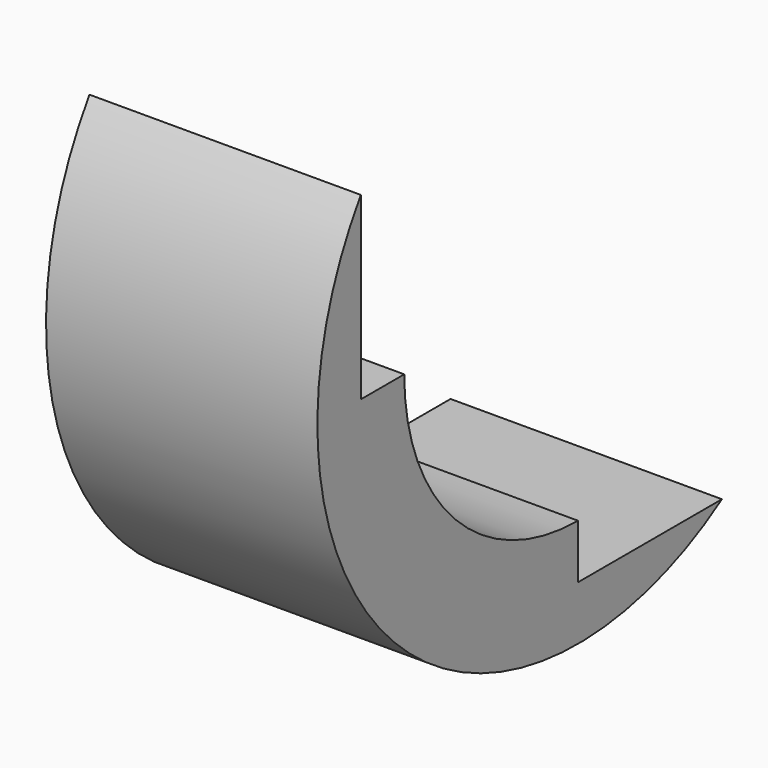
from build123d import *

# Parameters (mm, degrees)
BOX036_W      = 5
BOX036_H      = 10
BOX036_DEPTH  = 8
BOX035_W      = 5
BOX035_H      = 8
BOX035_DEPTH  = 10
TUBE015_R     = 6
TUBE015_R_2   = 4
TUBE015_DEPTH = 5


with BuildPart() as cube036:
    # Box036 → Box036 (new body)
    with BuildSketch(Plane(origin=(0, -2, 3), x_dir=(1, 0, 0), z_dir=(0, 0, 1))):
        with Locations((2.5, 5)):
            Rectangle(BOX036_W, BOX036_H)
    extrude(amount=BOX036_DEPTH)


with BuildPart() as cube035:
    # Box035 → Box035 (new body)
    with BuildSketch(Plane(origin=(0, 3, -2), x_dir=(1, 0, 0), z_dir=(0, 0, 1))):
        with Locations((2.5, 4)):
            Rectangle(BOX035_W, BOX035_H)
    extrude(amount=BOX035_DEPTH)


with BuildPart() as cut040:
    # Tube015 → Tube015 (new body)
    with BuildSketch(Plane(origin=(0, 3, 3), x_dir=(0, 0, -1), z_dir=(1, 0, 0))):
        Circle(TUBE015_R)
        Circle(TUBE015_R_2, mode=Mode.SUBTRACT)
    extrude(amount=TUBE015_DEPTH)

    # Cut039: cut Cube035
    add(cube035.part, mode=Mode.SUBTRACT)

    # Cut040: cut Cube036
    add(cube036.part, mode=Mode.SUBTRACT)


with BuildPart() as cut040_1:
    # Cut040 placement: moved
    add(cut040.part.moved(Location((0, 1, 1))))


solid = cut040_1.part
